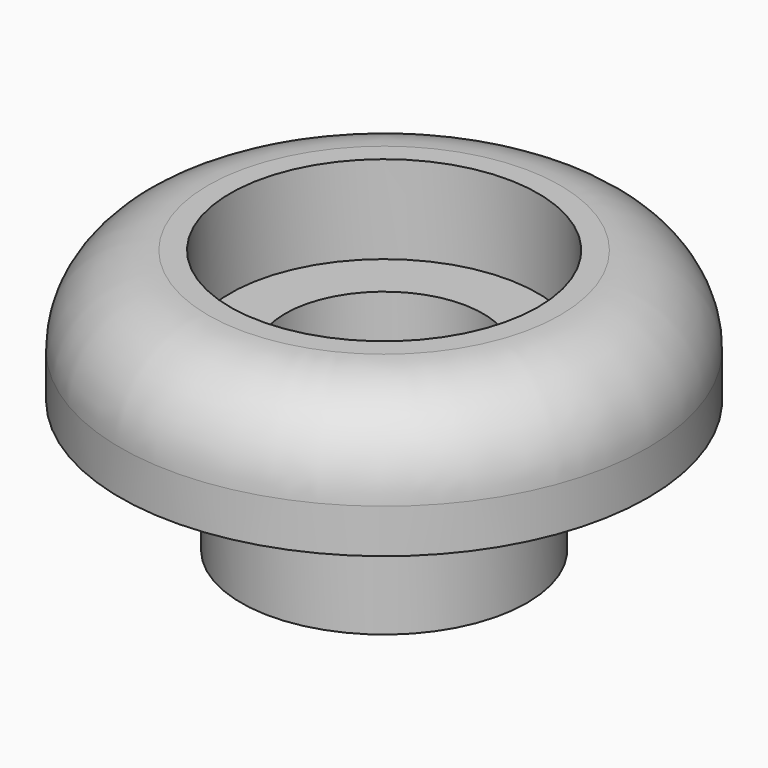
from build123d import *

# Parameters (mm, degrees)
SKETCH_R         = 6
PAD_DEPTH        = 3
SKETCH002_R      = 3.25
PAD001_DEPTH     = 3
HOLE_D           = 4.5
HOLE_DEPTH       = 25
HOLE_CBORE_D     = 7
HOLE_CBORE_DEPTH = 2
FILLET_R         = 2


with BuildPart() as part:
    # Sketch → Pad (new body)
    with BuildSketch(Plane.XY):
        Circle(SKETCH_R)
    extrude(amount=PAD_DEPTH)

    # Sketch002 → Pad001 (join)
    with BuildSketch(Plane(origin=(0, 0, 0), x_dir=(1, 0, 0), z_dir=(0, 0, -1))):
        Circle(SKETCH002_R)
    extrude(amount=PAD001_DEPTH)

    # Hole
    with Locations(Plane.XY.offset(3)):
        with Locations((0, 0)):
            CounterBoreHole(HOLE_D / 2, HOLE_CBORE_D / 2, HOLE_CBORE_DEPTH, depth=HOLE_DEPTH)

    # Fillet
    fillet_edges = [part.edges().sort_by_distance(p)[0] for p in [
        (-6, 0, 3),
    ]]
    fillet(fillet_edges, radius=FILLET_R)


solid = part.part
